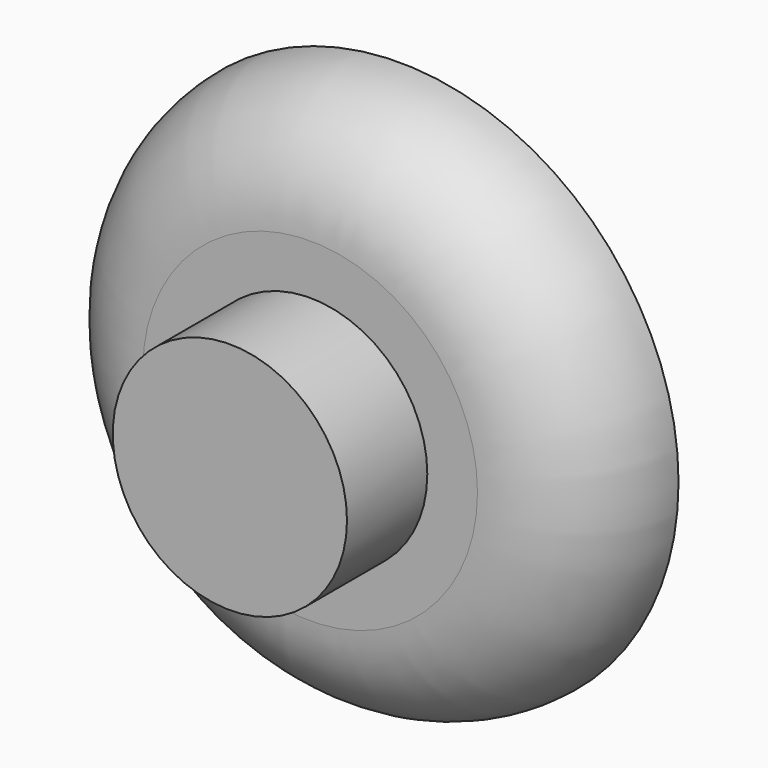
from build123d import *

# Parameters (mm, degrees)
F1_R     = 9.525
F2_DEPTH = 7.62
F4_R     = 4.0005
F5_DEPTH = 3.429
F6_R     = 3.81


with BuildPart() as f2:
    # F1 (on Front) → F2 (new body)
    with BuildSketch(Plane.XZ):
        Circle(F1_R)
    extrude(amount=F2_DEPTH)

    # F0 (on Top) → F3 (revolve, cut)
    with BuildSketch(Plane.XY):
        with BuildLine():
            Line((0, 31.75), (0, -6.35))
            ThreePointArc((0, -6.35), (19.05, 12.7), (0, 31.75))
        make_face()
    revolve(axis=Axis((0, 12.7, 0), (0, 1, 0)), mode=Mode.SUBTRACT)

    # F4 (on face) → F5 (join)
    with BuildSketch(Plane.XZ.offset(7.62)):
        Circle(F4_R)
    extrude(amount=F5_DEPTH)

    # F6
    f6_edges = [f2.edges().sort_by_distance(p)[0] for p in [
        (-9.525, -7.62, 0),
    ]]
    fillet(f6_edges, radius=F6_R)


solid = f2.part
